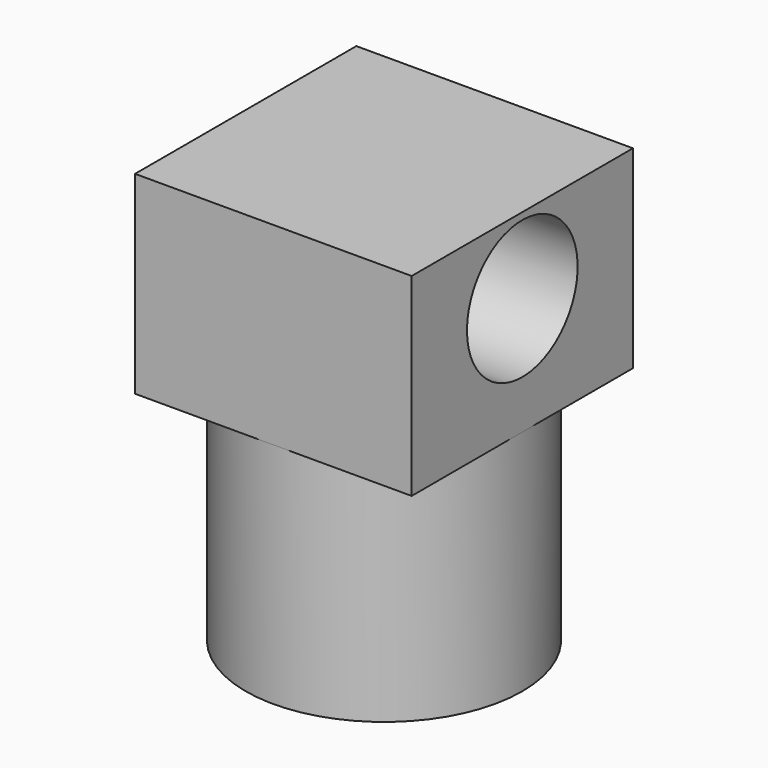
from build123d import *

# Parameters (mm, degrees)
F0_R     = 100
F1_DEPTH = 265
F2_R     = 100
F3_DEPTH = 100
F4_W     = 200
F4_H     = 200
F5_DEPTH = 140
F6_R     = 50
F7_DEPTH = 200


with BuildPart() as f1:
    # F0 (on Top) → F1 (new body)
    with BuildSketch(Plane.XY):
        Circle(F0_R)
    extrude(amount=F1_DEPTH)

    # F2 (on face) → F3 (cut)
    with BuildSketch(Plane(origin=(0, 0, 0), x_dir=(1, 0, 0), z_dir=(0, 0, -1))):
        Circle(F2_R)
    extrude(amount=-F3_DEPTH, mode=Mode.SUBTRACT)

    # F4 (on face) → F5 (join)
    with BuildSketch(Plane.XY.offset(265)):
        Rectangle(F4_W, F4_H)
    extrude(amount=F5_DEPTH)

    # F6 (on face) → F7 (cut)
    with BuildSketch(Plane(origin=(-100, 0, 0), x_dir=(0, -1, 0), z_dir=(-1, 0, 0))):
        with Locations((0, 350)):
            Circle(F6_R)
    extrude(amount=-F7_DEPTH, mode=Mode.SUBTRACT)


solid = f1.part
